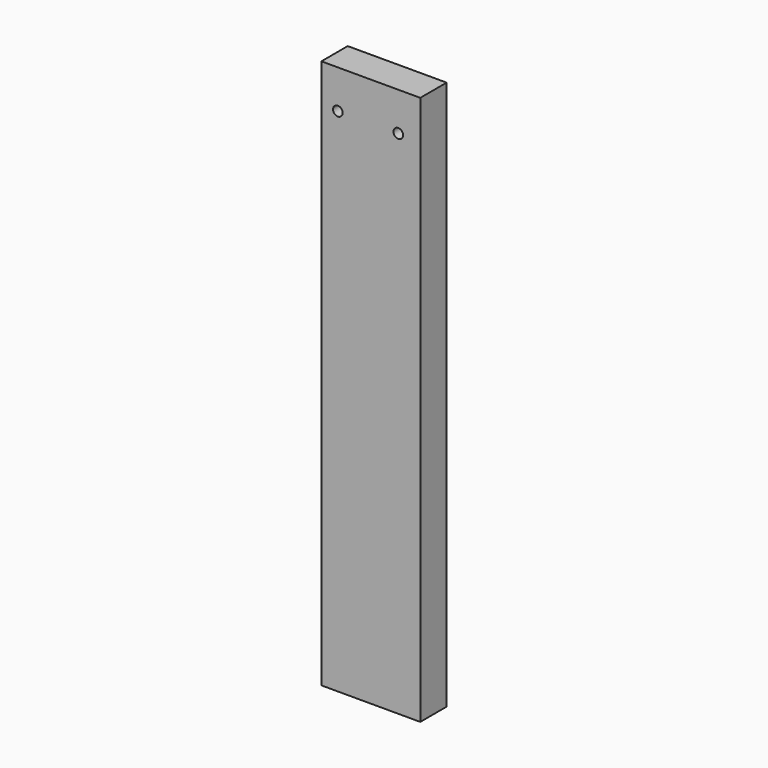
from build123d import *

# Parameters (mm, degrees)
F0_W     = 114.3
F0_H     = 635
F1_DEPTH = 38.1
F3_D     = 11.1125


with BuildPart() as f1:
    # F0 (on Front) → F1 (new body)
    with BuildSketch(Plane.XZ):
        with Locations((57.15, -317.5)):
            Rectangle(F0_W, F0_H)
    extrude(amount=-F1_DEPTH)

    # F3 (through all)
    with Locations(Plane.XZ):
        with Locations((19.05, -44.45), (88.9, -44.45)):
            Hole(F3_D / 2)


solid = f1.part
